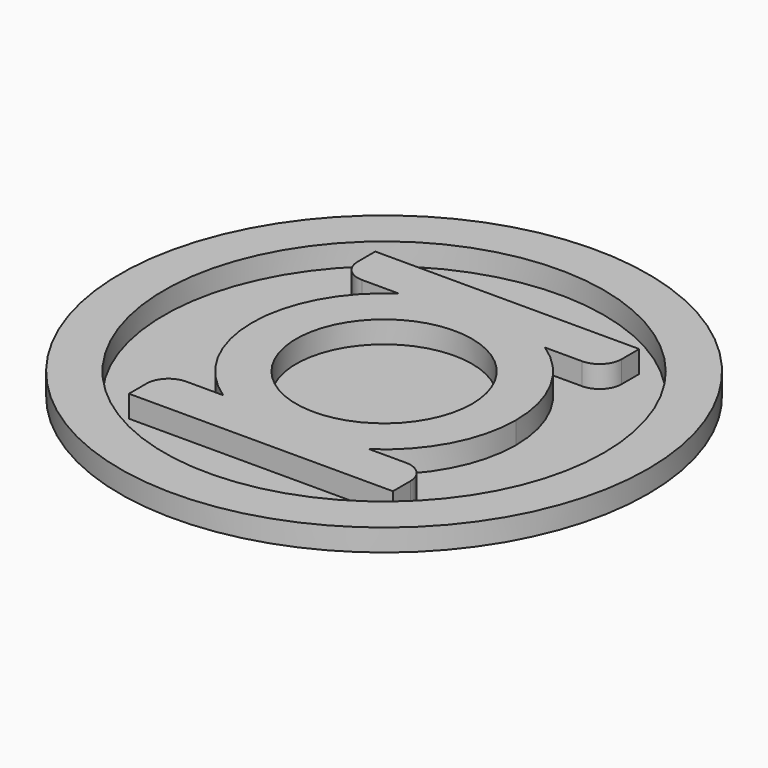
from build123d import *

# Parameters (mm, degrees)
F0_R     = 63.5
F1_DEPTH = 0.0254
F2_R     = 25.4
F3_DEPTH = 6.35
F4_R     = 76.2
F4_R_2   = 63.5
F5_DEPTH = 6.35


with BuildPart() as f1:
    # F0 (on Top) → F1 (new body)
    with BuildSketch(Plane.XY):
        Circle(F0_R)
    extrude(amount=F1_DEPTH)


with BuildPart() as f3:
    # F2 (on face) → F3 (new body)
    with BuildSketch(Plane.XY.offset(0.0254)):
        with BuildLine():
            ThreePointArc((21.0605674188, -31.75), (33.5709518681, -18.0166920014), (38.1, 0))
            ThreePointArc((38.1, 0), (33.5709518681, 18.0166920014), (21.0605674188, 31.75))
            Line((21.0605674188, 31.75), (0, 31.75))
            Line((0, 31.75), (-21.0605674188, 31.75))
            ThreePointArc((-21.0605674188, 31.75), (-38.1, 0), (-21.0605674188, -31.75))
            Line((-21.0605674188, -31.75), (0, -31.75))
            Line((0, -31.75), (21.0605674188, -31.75))
        make_face()
        Circle(F2_R, mode=Mode.SUBTRACT)
        with BuildLine():
            Line((0, 31.75), (21.0605674188, 31.75))
            ThreePointArc((21.0605674188, 31.75), (0, 38.1), (-21.0605674188, 31.75))
            Line((-21.0605674188, 31.75), (0, 31.75))
        make_face()
        with BuildLine():
            ThreePointArc((-21.0605674188, 31.75), (0, 38.1), (21.0605674188, 31.75))
            Line((21.0605674188, 31.75), (31.75, 31.75))
            ThreePointArc((31.75, 31.75), (36.2401280605, 33.6098719395), (38.1, 38.1))
            Line((38.1, 38.1), (38.1, 44.45))
            Line((38.1, 44.45), (-38.1, 44.45))
            Line((-38.1, 44.45), (-38.1, 38.1))
            ThreePointArc((-38.1, 38.1), (-36.2401280605, 33.6098719395), (-31.75, 31.75))
            Line((-31.75, 31.75), (-21.0605674188, 31.75))
        make_face()
        with BuildLine():
            Line((31.75, -31.75), (21.0605674188, -31.75))
            ThreePointArc((21.0605674188, -31.75), (0, -38.1), (-21.0605674188, -31.75))
            Line((-21.0605674188, -31.75), (-31.75, -31.75))
            ThreePointArc((-31.75, -31.75), (-36.2401280605, -33.6098719395), (-38.1, -38.1))
            Line((-38.1, -38.1), (-38.1, -44.45))
            Line((-38.1, -44.45), (38.1, -44.45))
            Line((38.1, -44.45), (38.1, -38.1))
            ThreePointArc((38.1, -38.1), (36.2401280605, -33.6098719395), (31.75, -31.75))
        make_face()
        with BuildLine():
            ThreePointArc((-21.0605674188, -31.75), (0, -38.1), (21.0605674188, -31.75))
            Line((21.0605674188, -31.75), (0, -31.75))
            Line((0, -31.75), (-21.0605674188, -31.75))
        make_face()
    extrude(amount=F3_DEPTH)


with BuildPart() as f5:
    # F4 (on Top) → F5 (new body)
    with BuildSketch(Plane.XY):
        Circle(F4_R)
        Circle(F4_R_2, mode=Mode.SUBTRACT)
    extrude(amount=F5_DEPTH)


solid = Compound([f1.part, f3.part, f5.part])
